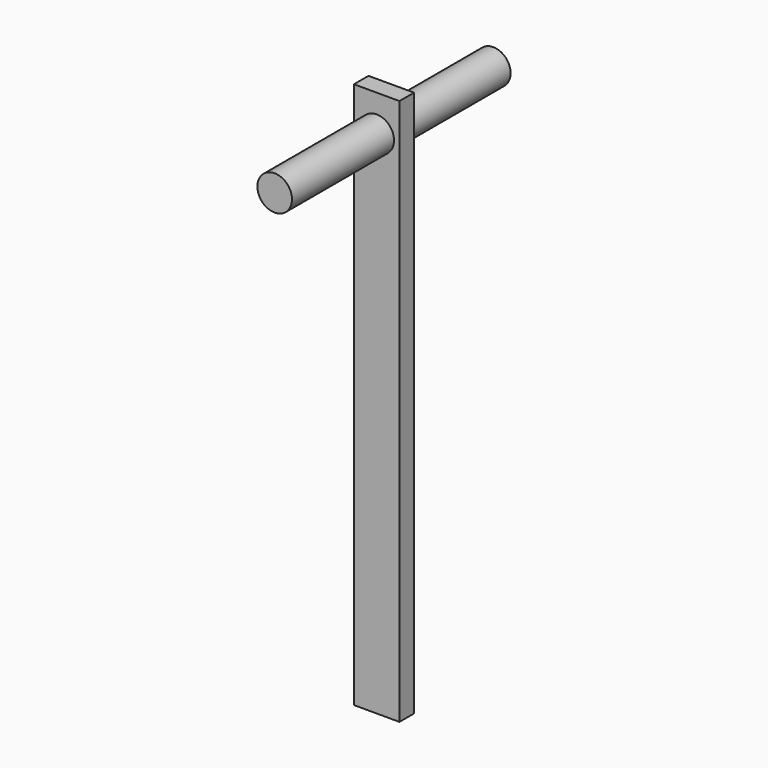
from build123d import *

# Parameters (mm, degrees)
F0_W     = 12.7
F0_H     = 5.08
F1_DEPTH = 76.2
F2_R     = 4.826
F3_DEPTH = 38.1


with BuildPart() as f1:
    # F0 (on Top) → F1 (new body, symmetric)
    with BuildSketch(Plane.XY):
        Rectangle(F0_W, F0_H)
    extrude(amount=F1_DEPTH, both=True)

    # F2 (on Front) → F3 (join, symmetric)
    with BuildSketch(Plane.XZ):
        with Locations((0, 66.04)):
            Circle(F2_R)
    extrude(amount=F3_DEPTH, both=True)


solid = f1.part
